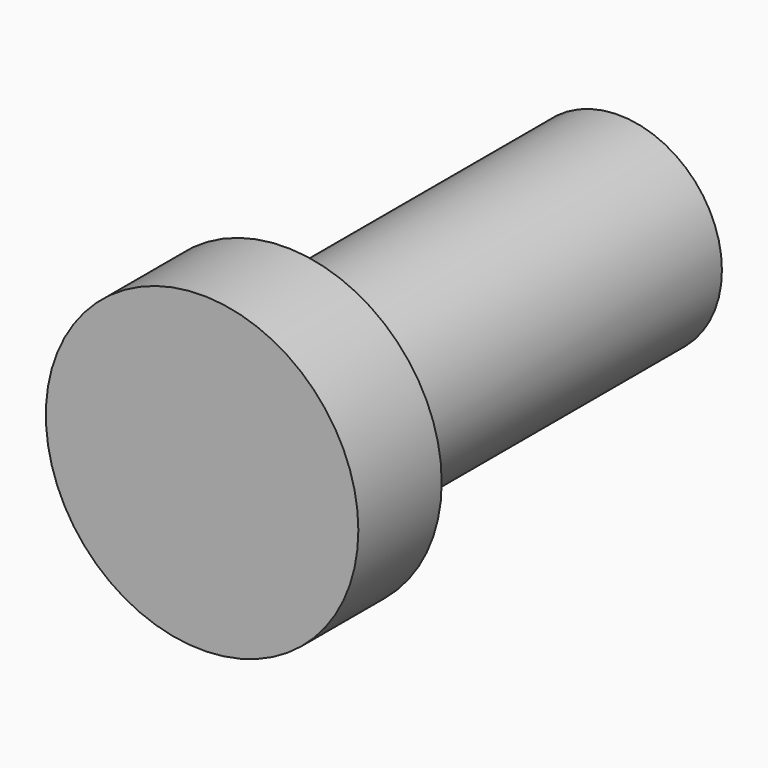
from build123d import *

# Parameters (mm, degrees)
F0_R     = 19.05
F1_DEPTH = 12.7
F2_R     = 12.573
F3_DEPTH = 50.8


with BuildPart() as f1:
    # F0 (on Front) → F1 (new body)
    with BuildSketch(Plane.XZ):
        Circle(F0_R)
        Circle(F0_R)
    extrude(amount=F1_DEPTH)

    # F2 (on Front) → F3 (join)
    with BuildSketch(Plane.XZ):
        Circle(F2_R)
    extrude(amount=-F3_DEPTH)

    # F5 (on offset) → F6 (revolve, cut)
    with BuildSketch(Plane.XZ.offset(-57.15)):
        with BuildLine():
            Line((0, -12.7), (0, 12.7))
            ThreePointArc((0, 12.7), (-12.7, 0), (0, -12.7))
        make_face()
    revolve(axis=Axis((0, 57.15, 0), (0, 0, -1)), mode=Mode.SUBTRACT)


solid = f1.part
